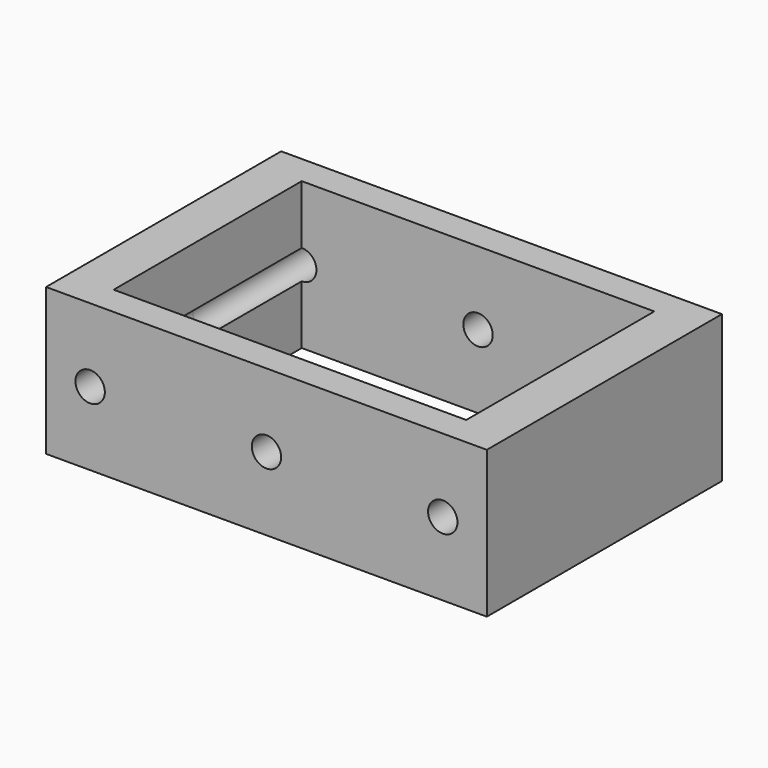
from build123d import *

# Parameters (mm, degrees)
F0_W          = 75
F0_H          = 50
F0_W_2        = 60
F0_H_2        = 40
F1_DEPTH      = 12.5
F2_R          = 2.5
F3_DEPTH      = 25.001
F3_DEPTH_BACK = 25.001


with BuildPart() as f1:
    # F0 (on Top) → F1 (new body, symmetric)
    with BuildSketch(Plane.XY):
        Rectangle(F0_W, F0_H)
        Rectangle(F0_W_2, F0_H_2, mode=Mode.SUBTRACT)
    extrude(amount=F1_DEPTH, both=True)

    # F2 (on Front) → F3 (cut, two sides)
    with BuildSketch(Plane.XZ) as f3_sk:
        with Locations((-30, 0)):
            Circle(F2_R)
        with Locations((30, 0)):
            Circle(F2_R)
        Circle(F2_R)
    extrude(amount=-F3_DEPTH, mode=Mode.SUBTRACT)
    extrude(f3_sk.sketch, amount=F3_DEPTH_BACK, mode=Mode.SUBTRACT)


solid = f1.part
